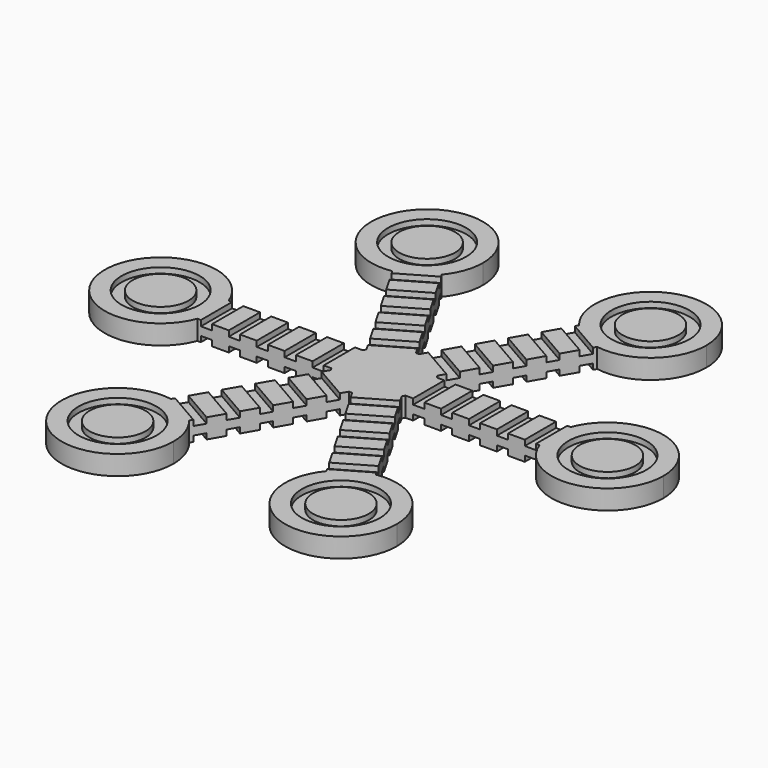
from build123d import *

# Parameters (mm, degrees)
F1_DEPTH = 3.5
F2_W     = 2
F2_H     = 6.9933316037
F2_R     = 7
F2_R_2   = 5
F3_DEPTH = 1
F4_R     = 7
F4_R_2   = 5
F4_W     = 2
F4_H     = 6.9933316037
F5_DEPTH = 1


with BuildPart() as f1:
    # F0 (on Top) → F1 (new body)
    with BuildSketch(Plane.XY):
        with BuildLine():
            Line((-39.8474096896, 3.4933316037), (-30.6300141779, 3.4933316037))
            ThreePointArc((-30.6300141779, 3.4933316037), (-49.9999993667, 0.0035588537), (-30.6325030024, -3.5))
            Line((-30.6325030024, -3.5), (-40.152881589, -3.5))
            Line((-40.152881589, -3.5), (-39.8474096896, 3.4933316037))
        make_face()
        with BuildLine():
            ThreePointArc((-6.6332495807, -3.5), (-7.499999053, -0.0037688708), (-6.6367638429, 3.4933316037))
            Line((-6.6367638429, 3.4933316037), (-30.6300141779, 3.4933316037))
            ThreePointArc((-30.6300141779, 3.4933316037), (-30.1587638423, 1.7748439056), (-30, 0))
            ThreePointArc((-30, 0), (-30.1593961065, -1.7783461452), (-30.6325030024, -3.5))
            Line((-30.6325030024, -3.5), (-6.6332495807, -3.5))
        make_face()
        with BuildLine():
            Line((-16.8983909322, 36.255534868), (-12.2896931763, 28.2730361981))
            ThreePointArc((-12.2896931763, 28.2730361981), (-10.58981753, 31.2574579826), (-10, 34.6410161514))
            ThreePointArc((-10, 34.6410161514), (-27.6330398877, 41.1014110365), (-18.3473404144, 24.7785257816))
            Line((-18.3473404144, 24.7785257816), (-23.1075297077, 33.0234154912))
            Line((-23.1075297077, 33.0234154912), (-16.8983909322, 36.255534868))
        make_face()
        with BuildLine():
            ThreePointArc((-18.3473404144, 24.7785257816), (-15.0030823743, 25.9789832351), (-12.2896931763, 28.2730361981))
            Line((-12.2896931763, 28.2730361981), (-16.8983909322, 36.255534868))
            Line((-16.8983909322, 36.255534868), (-23.1075297077, 33.0234154912))
            Line((-23.1075297077, 33.0234154912), (-18.3473404144, 24.7785257816))
        make_face()
        with BuildLine():
            ThreePointArc((-30, 0), (-30.1587638423, 1.7748439056), (-30.6300141779, 3.4933316037))
            Line((-30.6300141779, 3.4933316037), (-39.8474096896, 3.4933316037))
            Line((-39.8474096896, 3.4933316037), (-40.152881589, -3.5))
            Line((-40.152881589, -3.5), (-30.6325030024, -3.5))
            ThreePointArc((-30.6325030024, -3.5), (-30.1593961065, -1.7783461452), (-30, 0))
        make_face()
        with BuildLine():
            Line((22.9490187574, 32.7622032644), (18.3403210015, 24.7797045945))
            ThreePointArc((18.3403210015, 24.7797045945), (26.4576779889, 27.005677587), (30, 34.6410161514))
            ThreePointArc((30, 34.6410161514), (16.6197909917, 44.0524021843), (12.285162588, 28.2785257816))
            Line((12.285162588, 28.2785257816), (17.0453518813, 36.5234154912))
            Line((17.0453518813, 36.5234154912), (22.9490187574, 32.7622032644))
        make_face()
        with BuildLine():
            ThreePointArc((12.285162588, 28.2785257816), (14.996918259, 25.9825420888), (18.3403210015, 24.7797045945))
            Line((18.3403210015, 24.7797045945), (22.9490187574, 32.7622032644))
            Line((22.9490187574, 32.7622032644), (17.0453518813, 36.5234154912))
            Line((17.0453518813, 36.5234154912), (12.285162588, 28.2785257816))
        make_face()
        with BuildLine():
            ThreePointArc((0.2855358771, 7.4945626465), (3.7467355887, 6.4970741437), (6.3436958341, 4.0009402851))
            Line((6.3436958341, 4.0009402851), (18.3403210015, 24.7797045945))
            ThreePointArc((18.3403210015, 24.7797045945), (14.996918259, 25.9825420888), (12.285162588, 28.2785257816))
            Line((12.285162588, 28.2785257816), (0.2855358771, 7.4945626465))
        make_face()
        with BuildLine():
            ThreePointArc((6.6367638429, -3.4933316037), (7.280993367, -1.7992041543), (7.5, 0))
            ThreePointArc((7.5, 0), (7.2800883187, 1.8028627436), (6.6332495807, 3.5))
            ThreePointArc((6.6332495807, 3.5), (6.4933052729, 3.7532634644), (6.3436958341, 4.0009402851))
            ThreePointArc((6.3436958341, 4.0009402851), (3.7467355887, 6.4970741437), (0.2855358771, 7.4945626465))
            ThreePointArc((0.2855358771, 7.4945626465), (-0.0037688708, 7.499999053), (-0.2930680089, 7.4942718887))
            ThreePointArc((-0.2930680089, 7.4942718887), (-3.7532634644, 6.4933052729), (-6.3477137036, 3.9945626465))
            ThreePointArc((-6.3477137036, 3.9945626465), (-6.4970741437, 3.7467355887), (-6.6367638429, 3.4933316037))
            ThreePointArc((-6.6367638429, 3.4933316037), (-7.499999053, -0.0037688708), (-6.6332495807, -3.5))
            ThreePointArc((-6.6332495807, -3.5), (-6.4933052729, -3.7532634644), (-6.3436958341, -4.0009402851))
            ThreePointArc((-6.3436958341, -4.0009402851), (-3.7467355887, -6.4970741437), (-0.2855358771, -7.4945626465))
            ThreePointArc((-0.2855358771, -7.4945626465), (0.0037688708, -7.499999053), (0.2930680089, -7.4942718887))
            ThreePointArc((0.2930680089, -7.4942718887), (3.7532634644, -6.4933052729), (6.3477137036, -3.9945626465))
            ThreePointArc((6.3477137036, -3.9945626465), (6.4970741437, -3.7467355887), (6.6367638429, -3.4933316037))
        make_face()
        with BuildLine():
            ThreePointArc((6.6332495807, 3.5), (7.2800883187, 1.8028627436), (7.5, 0))
            ThreePointArc((7.5, 0), (7.280993367, -1.7992041543), (6.6367638429, -3.4933316037))
            Line((6.6367638429, -3.4933316037), (30.6300141779, -3.4933316037))
            ThreePointArc((30.6300141779, -3.4933316037), (30.0000006333, 0.0035588537), (30.6325030024, 3.5))
            Line((30.6325030024, 3.5), (6.6332495807, 3.5))
        make_face()
        with BuildLine():
            Line((40.152881589, 3.5), (30.6325030024, 3.5))
            ThreePointArc((30.6325030024, 3.5), (30.0000006333, 0.0035588537), (30.6300141779, -3.4933316037))
            Line((30.6300141779, -3.4933316037), (39.8474096896, -3.4933316037))
            Line((39.8474096896, -3.4933316037), (40.152881589, 3.5))
        make_face()
        with BuildLine():
            ThreePointArc((50, 0), (41.7783461452, 9.8406038935), (30.6325030024, 3.5))
            Line((30.6325030024, 3.5), (40.152881589, 3.5))
            Line((40.152881589, 3.5), (39.8474096896, -3.4933316037))
            Line((39.8474096896, -3.4933316037), (30.6300141779, -3.4933316037))
            ThreePointArc((30.6300141779, -3.4933316037), (41.7748439056, -9.8412361577), (50, 0))
        make_face()
        with BuildLine():
            ThreePointArc((30, -34.6410161514), (26.4603948852, -27.0079762636), (18.3473404144, -24.7785257816))
            Line((18.3473404144, -24.7785257816), (23.1075297077, -33.0234154912))
            Line((23.1075297077, -33.0234154912), (16.8983909322, -36.255534868))
            Line((16.8983909322, -36.255534868), (12.2896931763, -28.2730361981))
            ThreePointArc((12.2896931763, -28.2730361981), (16.6164418312, -44.0511986214), (30, -34.6410161514))
        make_face()
        with BuildLine():
            Line((23.1075297077, -33.0234154912), (18.3473404144, -24.7785257816))
            ThreePointArc((18.3473404144, -24.7785257816), (15.0030823743, -25.9789832351), (12.2896931763, -28.2730361981))
            Line((12.2896931763, -28.2730361981), (16.8983909322, -36.255534868))
            Line((16.8983909322, -36.255534868), (23.1075297077, -33.0234154912))
        make_face()
        with BuildLine():
            Line((18.3473404144, -24.7785257816), (6.3477137036, -3.9945626465))
            ThreePointArc((6.3477137036, -3.9945626465), (3.7532634644, -6.4933052729), (0.2930680089, -7.4942718887))
            Line((0.2930680089, -7.4942718887), (12.2896931763, -28.2730361981))
            ThreePointArc((12.2896931763, -28.2730361981), (15.0030823743, -25.9789832351), (18.3473404144, -24.7785257816))
        make_face()
        with BuildLine():
            Line((-12.285162588, -28.2785257816), (-0.2855358771, -7.4945626465))
            ThreePointArc((-0.2855358771, -7.4945626465), (-3.7467355887, -6.4970741437), (-6.3436958341, -4.0009402851))
            Line((-6.3436958341, -4.0009402851), (-18.3403210015, -24.7797045945))
            ThreePointArc((-18.3403210015, -24.7797045945), (-14.996918259, -25.9825420888), (-12.285162588, -28.2785257816))
        make_face()
        with BuildLine():
            Line((-17.0453518813, -36.5234154912), (-12.285162588, -28.2785257816))
            ThreePointArc((-12.285162588, -28.2785257816), (-14.996918259, -25.9825420888), (-18.3403210015, -24.7797045945))
            Line((-18.3403210015, -24.7797045945), (-22.9490187574, -32.7622032644))
            Line((-22.9490187574, -32.7622032644), (-17.0453518813, -36.5234154912))
        make_face()
        with BuildLine():
            ThreePointArc((-10, -34.6410161514), (-10.5886139671, -31.2608071431), (-12.285162588, -28.2785257816))
            Line((-12.285162588, -28.2785257816), (-17.0453518813, -36.5234154912))
            Line((-17.0453518813, -36.5234154912), (-22.9490187574, -32.7622032644))
            Line((-22.9490187574, -32.7622032644), (-18.3403210015, -24.7797045945))
            ThreePointArc((-18.3403210015, -24.7797045945), (-27.6353385644, -41.0986941402), (-10, -34.6410161514))
        make_face()
        with BuildLine():
            ThreePointArc((-6.3477137036, 3.9945626465), (-3.7532634644, 6.4933052729), (-0.2930680089, 7.4942718887))
            Line((-0.2930680089, 7.4942718887), (-12.2896931763, 28.2730361981))
            ThreePointArc((-12.2896931763, 28.2730361981), (-15.0030823743, 25.9789832351), (-18.3473404144, 24.7785257816))
            Line((-18.3473404144, 24.7785257816), (-6.3477137036, 3.9945626465))
        make_face()
    extrude(amount=F1_DEPTH)

    # F2 (on face) → F3 (cut)
    with BuildSketch(Plane.XY.offset(3.5)):
        Polygon((-11.9689110868, -27.7307621135), (-10.9689110868, -25.998711306), (-17.0253139126, -22.5020455041), (-18.0253139126, -24.2340963117), align=None)
        Polygon((-9.4689110868, -23.4006350946), (-8.4689110868, -21.668584287), (-14.5253139126, -18.1719184852), (-15.5253139126, -19.9039692928), align=None)
        Polygon((-6.9689110868, -19.0705080757), (-5.9689110868, -17.3384572681), (-12.0253139126, -13.8417914663), (-13.0253139126, -15.5738422739), align=None)
        Polygon((-4.4689110868, -14.7403810568), (-3.4689110868, -13.0083302492), (-9.5253139126, -9.5116644474), (-10.5253139126, -11.2437152549), align=None)
        Polygon((-1.9689110868, -10.4102540378), (-0.9689110868, -8.6782032303), (-7.0253139126, -5.1815374284), (-8.0253139126, -6.913588236), align=None)
        Polygon((8.0310889132, -6.9102540378), (7.0310889132, -5.1782032303), (0.9746860874, -8.6748690321), (1.9746860874, -10.4069198397), align=None)
        Polygon((10.5310889132, -11.2403810568), (9.5310889132, -9.5083302492), (3.4746860874, -13.004996051), (4.4746860874, -14.7370468586), align=None)
        Polygon((13.0310889132, -15.5705080757), (12.0310889132, -13.8384572681), (5.9746860874, -17.3351230699), (6.9746860874, -19.0671738775), align=None)
        Polygon((15.5310889132, -19.9006350946), (14.5310889132, -18.168584287), (8.4746860874, -21.6652500889), (9.4746860874, -23.3973008964), align=None)
        Polygon((18.0310889132, -24.2307621135), (17.0310889132, -22.498711306), (10.9746860874, -25.9953771078), (11.9746860874, -27.7274279154), align=None)
        with Locations((29, 0.0033341982)):
            Rectangle(F2_W, F2_H)
        with Locations((19, 0.0033341982)):
            Rectangle(F2_W, F2_H)
        with Locations((14, 0.0033341982)):
            Rectangle(F2_W, F2_H)
        with Locations((9, 0.0033341982)):
            Rectangle(F2_W, F2_H)
        Polygon((10.9689110868, 25.998711306), (17.0253139126, 22.5020455041), (18.0253139126, 24.2340963117), (11.9689110868, 27.7307621135), align=None)
        Polygon((8.4689110868, 21.668584287), (14.5253139126, 18.1719184852), (15.5253139126, 19.9039692928), (9.4689110868, 23.4006350946), align=None)
        Polygon((5.9689110868, 17.3384572681), (12.0253139126, 13.8417914663), (13.0253139126, 15.5738422739), (6.9689110868, 19.0705080757), align=None)
        Polygon((3.4689110868, 13.0083302492), (9.5253139126, 9.5116644474), (10.5253139126, 11.2437152549), (4.4689110868, 14.7403810568), align=None)
        Polygon((0.9689110868, 8.6782032303), (7.0253139126, 5.1815374284), (8.0253139126, 6.913588236), (1.9689110868, 10.4102540378), align=None)
        Polygon((-7.0310889132, 5.1782032303), (-0.9746860874, 8.6748690321), (-1.9746860874, 10.4069198397), (-8.0310889132, 6.9102540378), align=None)
        Polygon((-9.5310889132, 9.5083302492), (-3.4746860874, 13.004996051), (-4.4746860874, 14.7370468586), (-10.5310889132, 11.2403810568), align=None)
        Polygon((-12.0310889132, 13.8384572681), (-5.9746860874, 17.3351230699), (-6.9746860874, 19.0671738775), (-13.0310889132, 15.5705080757), align=None)
        Polygon((-14.5310889132, 18.168584287), (-8.4746860874, 21.6652500889), (-9.4746860874, 23.3973008964), (-15.5310889132, 19.9006350946), align=None)
        Polygon((-17.0310889132, 22.498711306), (-10.9746860874, 25.9953771078), (-11.9746860874, 27.7274279154), (-18.0310889132, 24.2307621135), align=None)
        with Locations((-9, -0.0033341982)):
            Rectangle(F2_W, F2_H)
        with Locations((-14, -0.0033341982)):
            Rectangle(F2_W, F2_H)
        with Locations((-19, -0.0033341982)):
            Rectangle(F2_W, F2_H)
        with Locations((-24, -0.0033341982)):
            Rectangle(F2_W, F2_H)
        with Locations((-29, -0.0033341982)):
            Rectangle(F2_W, F2_H)
        with Locations((-20, 34.6410161514)):
            Circle(F2_R)
        with Locations((-20, 34.6410161514)):
            Circle(F2_R_2, mode=Mode.SUBTRACT)
        with Locations((20, 34.6410161514)):
            Circle(F2_R)
        with Locations((20, 34.6410161514)):
            Circle(F2_R_2, mode=Mode.SUBTRACT)
        with Locations((40, 0)):
            Circle(F2_R)
        with Locations((40, 0)):
            Circle(F2_R_2, mode=Mode.SUBTRACT)
        with Locations((20, -34.6410161514)):
            Circle(F2_R)
        with Locations((20, -34.6410161514)):
            Circle(F2_R_2, mode=Mode.SUBTRACT)
        with Locations((-20, -34.6410161514)):
            Circle(F2_R)
        with Locations((-20, -34.6410161514)):
            Circle(F2_R_2, mode=Mode.SUBTRACT)
        with Locations((-40, 0)):
            Circle(F2_R)
        with Locations((-40, 0)):
            Circle(F2_R_2, mode=Mode.SUBTRACT)
        with Locations((24, 0.0033341982)):
            Rectangle(F2_W, F2_H)
    extrude(amount=-F3_DEPTH, mode=Mode.SUBTRACT)

    # F4 (on face) → F5 (cut)
    with BuildSketch(Plane(origin=(0, 0, 0), x_dir=(1, 0, 0), z_dir=(0, 0, -1))):
        with Locations((-20, 34.6410161514)):
            Circle(F4_R)
        with Locations((-20, 34.6410161514)):
            Circle(F4_R_2, mode=Mode.SUBTRACT)
        Polygon((-17.0253139126, 22.5020455041), (-10.9689110868, 25.998711306), (-11.9689110868, 27.7307621135), (-18.0253139126, 24.2340963117), align=None)
        Polygon((-14.5253139126, 18.1719184852), (-8.4689110868, 21.668584287), (-9.4689110868, 23.4006350946), (-15.5253139126, 19.9039692928), align=None)
        Polygon((-12.0253139126, 13.8417914663), (-5.9689110868, 17.3384572681), (-6.9689110868, 19.0705080757), (-13.0253139126, 15.5738422739), align=None)
        Polygon((-9.5253139126, 9.5116644474), (-3.4689110868, 13.0083302492), (-4.4689110868, 14.7403810568), (-10.5253139126, 11.2437152549), align=None)
        Polygon((-7.0253139126, 5.1815374284), (-0.9689110868, 8.6782032303), (-1.9689110868, 10.4102540378), (-8.0253139126, 6.913588236), align=None)
        with Locations((20, 34.6410161514)):
            Circle(F4_R)
        with Locations((20, 34.6410161514)):
            Circle(F4_R_2, mode=Mode.SUBTRACT)
        Polygon((10.9746860874, 25.9953771078), (17.0310889132, 22.498711306), (18.0310889132, 24.2307621135), (11.9746860874, 27.7274279154), align=None)
        Polygon((8.4746860874, 21.6652500889), (14.5310889132, 18.168584287), (15.5310889132, 19.9006350946), (9.4746860874, 23.3973008964), align=None)
        Polygon((5.9746860874, 17.3351230699), (12.0310889132, 13.8384572681), (13.0310889132, 15.5705080757), (6.9746860874, 19.0671738775), align=None)
        Polygon((3.4746860874, 13.004996051), (9.5310889132, 9.5083302492), (10.5310889132, 11.2403810568), (4.4746860874, 14.7370468586), align=None)
        Polygon((0.9746860874, 8.6748690321), (7.0310889132, 5.1782032303), (8.0310889132, 6.9102540378), (1.9746860874, 10.4069198397), align=None)
        with Locations((9, -0.0033341982)):
            Rectangle(F4_W, F4_H)
        with Locations((14, -0.0033341982)):
            Rectangle(F4_W, F4_H)
        with Locations((19, -0.0033341982)):
            Rectangle(F4_W, F4_H)
        with Locations((24, -0.0033341982)):
            Rectangle(F4_W, F4_H)
        with Locations((29, -0.0033341982)):
            Rectangle(F4_W, F4_H)
        with Locations((40, 0)):
            Circle(F4_R)
        with Locations((40, 0)):
            Circle(F4_R_2, mode=Mode.SUBTRACT)
        with Locations((-24, 0.0033341982)):
            Rectangle(F4_W, F4_H)
        with Locations((-19, 0.0033341982)):
            Rectangle(F4_W, F4_H)
        with Locations((-14, 0.0033341982)):
            Rectangle(F4_W, F4_H)
        with Locations((-9, 0.0033341982)):
            Rectangle(F4_W, F4_H)
        with Locations((-40, 0)):
            Circle(F4_R)
        with Locations((-40, 0)):
            Circle(F4_R_2, mode=Mode.SUBTRACT)
        with Locations((-29, 0.0033341982)):
            Rectangle(F4_W, F4_H)
        with Locations((-20, -34.6410161514)):
            Circle(F4_R)
        with Locations((-20, -34.6410161514)):
            Circle(F4_R_2, mode=Mode.SUBTRACT)
        Polygon((-11.9746860874, -27.7274279154), (-10.9746860874, -25.9953771078), (-17.0310889132, -22.498711306), (-18.0310889132, -24.2307621135), align=None)
        Polygon((-9.4746860874, -23.3973008964), (-8.4746860874, -21.6652500889), (-14.5310889132, -18.168584287), (-15.5310889132, -19.9006350946), align=None)
        Polygon((-6.9746860874, -19.0671738775), (-5.9746860874, -17.3351230699), (-12.0310889132, -13.8384572681), (-13.0310889132, -15.5705080757), align=None)
        Polygon((-4.4746860874, -14.7370468586), (-3.4746860874, -13.004996051), (-9.5310889132, -9.5083302492), (-10.5310889132, -11.2403810568), align=None)
        Polygon((-1.9746860874, -10.4069198397), (-0.9746860874, -8.6748690321), (-7.0310889132, -5.1782032303), (-8.0310889132, -6.9102540378), align=None)
        Polygon((8.0253139126, -6.913588236), (7.0253139126, -5.1815374284), (0.9689110868, -8.6782032303), (1.9689110868, -10.4102540378), align=None)
        Polygon((10.5253139126, -11.2437152549), (9.5253139126, -9.5116644474), (3.4689110868, -13.0083302492), (4.4689110868, -14.7403810568), align=None)
        Polygon((13.0253139126, -15.5738422739), (12.0253139126, -13.8417914663), (5.9689110868, -17.3384572681), (6.9689110868, -19.0705080757), align=None)
        Polygon((18.0253139126, -24.2340963117), (17.0253139126, -22.5020455041), (10.9689110868, -25.998711306), (11.9689110868, -27.7307621135), align=None)
        with Locations((20, -34.6410161514)):
            Circle(F4_R)
        with Locations((20, -34.6410161514)):
            Circle(F4_R_2, mode=Mode.SUBTRACT)
        Polygon((15.5253139126, -19.9039692928), (14.5253139126, -18.1719184852), (8.4689110868, -21.668584287), (9.4689110868, -23.4006350946), align=None)
    extrude(amount=-F5_DEPTH, mode=Mode.SUBTRACT)


solid = f1.part
